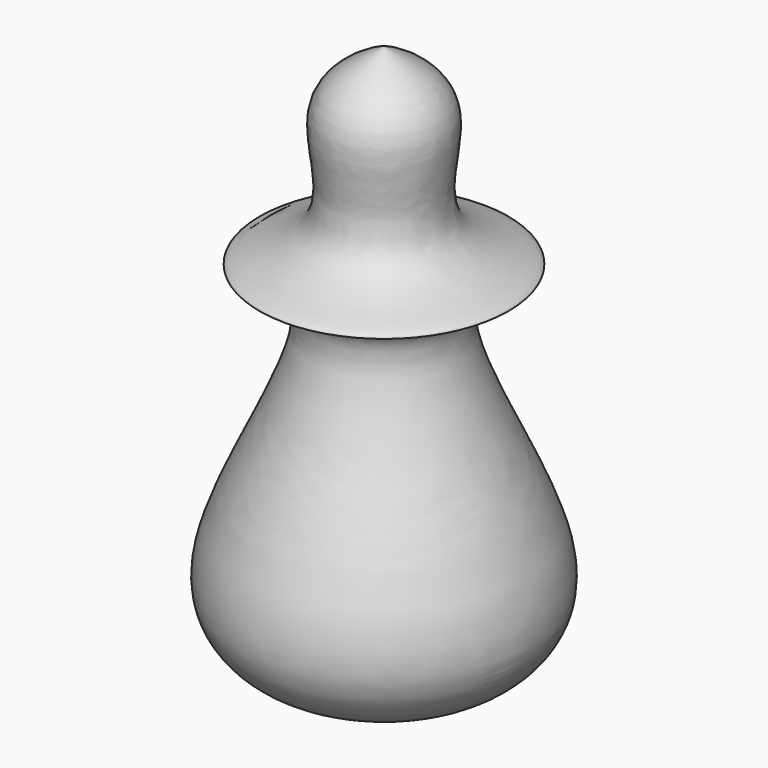
from build123d import *


with BuildPart() as f1:
    # F0 (on Front) → F1 (revolve)
    with BuildSketch(Plane.XZ):
        with BuildLine():
            Line((0, 76.3324585356), (0, 0))
            add(Edge.make_bspline(
                [(0, 76.3324585356), (4.1377114933, 74.4693382204), (11.2656347588, 69.8126466737), (3.7961991211, 53.185012174), (22.7588781781, 49.8665751797), (1.4319865154, 48.2485999546), (26.6593173803, 14.1951319178), (14.5356294797, 0.495666793), (7.7552781449, 0.3258233291), (0, 0)],
                knots=[0, 0, 0, 0, 0.1282248491, 0.2693009149, 0.3872809076, 0.493402149, 0.7135414006, 0.8524921199, 1, 1, 1, 1], degree=3))
        make_face()
    revolve(axis=Axis((0, 0, 38.1662292678), (0, 0, 1)))


solid = f1.part
